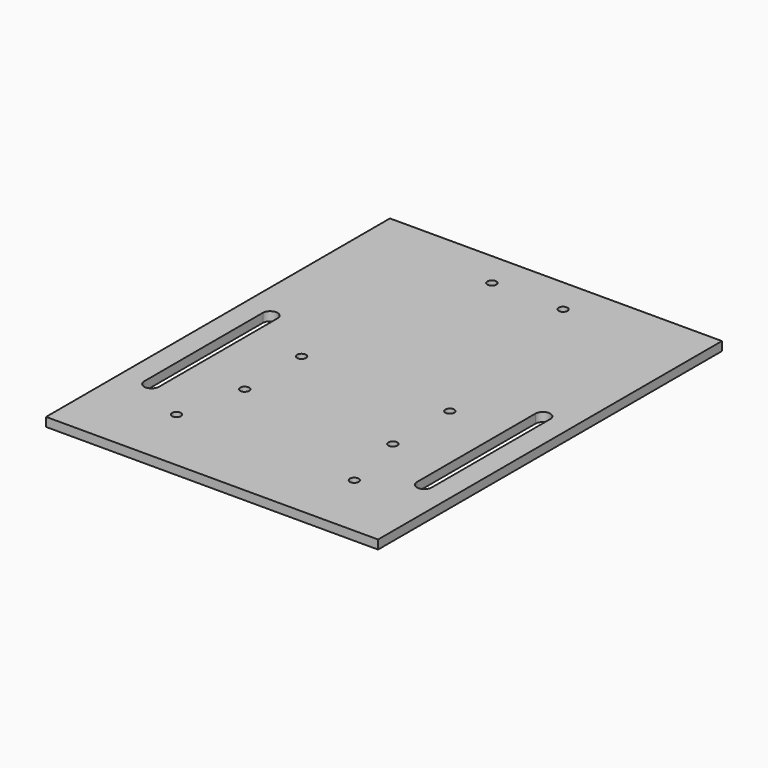
from build123d import *

# Parameters (mm, degrees)
F0_W     = 56
F0_H     = 145
F1_DEPTH = 3
F3_D     = 3
F8_DEPTH = 25
F11_D    = 3
F13_D    = 3


with BuildPart() as f1:
    # F0 (on Top) → F1 (new body)
    with BuildSketch(Plane.XY):
        with Locations((28, 72.5)):
            Rectangle(F0_W, F0_H)
    extrude(amount=F1_DEPTH)

    # F3 (through all)
    with Locations(Plane.XY.offset(3)):
        with Locations((25, 69), (25, 45)):
            Hole(F3_D / 2)

    # F7 (on face) → F8 (cut)
    with BuildSketch(Plane.XY.offset(3)):
        with BuildLine():
            ThreePointArc((48.5, 82), (46, 84.5), (43.5, 82))
            Line((43.5, 82), (43.5, 32))
            ThreePointArc((43.5, 32), (46, 29.5), (48.5, 32))
            Line((48.5, 32), (48.5, 82))
        make_face()
    extrude(amount=-F8_DEPTH, mode=Mode.SUBTRACT)

    # F11 (through all)
    with Locations(Plane.XY.offset(3)):
        with Locations((12, 133)):
            Hole(F11_D / 2)

    # F13 (through all)
    with Locations(Plane.XY.offset(3)):
        with Locations((30, 22.5)):
            Hole(F13_D / 2)

    # F14: F1 across plane


with BuildPart() as f1_1:
    add(f1.part)
    add(f1.part.mirror(Plane.YZ))


solid = f1_1.part
